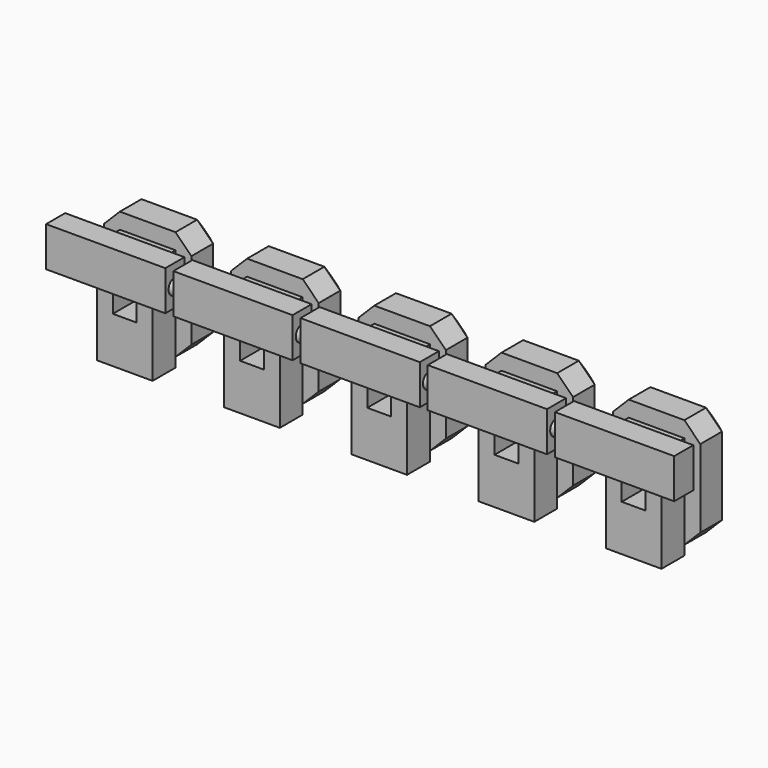
from build123d import *

# Parameters (mm, degrees)
CYLINDER_R           = 0.5
CYLINDER_DEPTH       = 35
CYLINDER_PITCH_ANGLE = 90
SKETCH_W             = 3.5
SKETCH_H             = 6.5
PAD_DEPTH            = 1.8
PAD001_DEPTH         = 2.7
SKETCH002_W          = 1.5
SKETCH002_H          = 1.2
POCKET_DEPTH         = 2.5
SKETCH003_W          = 7.5
SKETCH003_H          = 2.5
PAD002_DEPTH         = 1.5
CHAMFER_SIZE         = 1
ARRAY_X_COUNT        = 5
ARRAY_X_PITCH        = 8


with BuildPart() as cylinder:
    # Cylinder → Cylinder (new body)
    with BuildSketch(Plane.XY):
        Circle(CYLINDER_R)
    extrude(amount=CYLINDER_DEPTH)


with BuildPart() as cylinder_1:
    # Cylinder pitch: moved
    add(cylinder.part.rotate(Axis((0, 0, 0), (0, 1, 0)), CYLINDER_PITCH_ANGLE))


with BuildPart() as cylinder_2:
    # Cylinder placement: moved
    add(cylinder_1.part.moved(Location((0, -2.55, 6.2))))


with BuildPart() as fusion:
    # Sketch → Pad (new body)
    with BuildSketch(Plane.XZ):
        with Locations((0, 3.25)):
            Rectangle(SKETCH_W, SKETCH_H)
    extrude(amount=PAD_DEPTH)

    # Sketch001 → Pad001 (new body)
    with BuildSketch(Plane(origin=(0, 0, 0), x_dir=(1, 0, 0), z_dir=(0, 1, 0))):
        Polygon((-1.75, -0.6), (1.75, -0.6), (2.75, -1.6), (2.75, -6.5), (1.75, -7.5), (-1.75, -7.5), (-2.75, -6.5), (-2.75, -1.6), align=None)
    extrude(amount=PAD001_DEPTH)

    # Sketch002 → Pocket (cut)
    with BuildSketch(Plane.XZ.offset(1.8)):
        with Locations((0, 3.5)):
            Rectangle(SKETCH002_W, SKETCH002_H)
    extrude(amount=-POCKET_DEPTH, mode=Mode.SUBTRACT)

    # Sketch003 → Pad002 (new body)
    with BuildSketch(Plane.XZ.offset(1.8)):
        with Locations((0, 6.25)):
            Rectangle(SKETCH003_W, SKETCH003_H)
    extrude(amount=PAD002_DEPTH)

    # Chamfer
    chamfer_edges = [fusion.edges().sort_by_distance(p)[0] for p in [
        (-2.75, 2.7, 4.05),
        (-2.25, 2.7, 1.1),
        (0, 2.7, 0.6),
        (2.25, 2.7, 1.1),
        (2.75, 2.7, 4.05),
        (2.25, 2.7, 7),
        (0, 2.7, 7.5),
        (-2.25, 2.7, 7),
    ]]
    chamfer(chamfer_edges, length=CHAMFER_SIZE)

    # Array X: Fusion ×5


with BuildPart() as fusion_1:
    add(fusion.part)
    with Locations(*[(i * ARRAY_X_PITCH, 0, 0) for i in range(1, ARRAY_X_COUNT)]):
        add(fusion.part)

    # Fusion: union Cylinder
    add(cylinder_2.part)


solid = fusion_1.part
